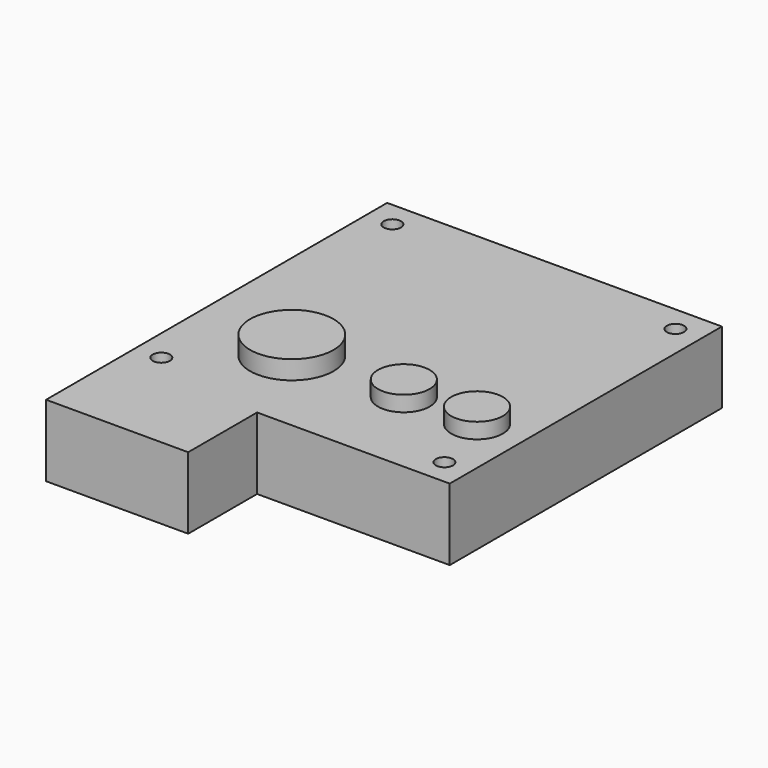
from build123d import *

# Parameters (mm, degrees)
F1_DEPTH = 25
F2_R     = 3
F3_DEPTH = 1000
F4_R     = 14.543021
F5_DEPTH = 6.5
F6_R     = 9
F7_DEPTH = 5.4


with BuildPart() as f1:
    # F0 (on Top) → F1 (new body)
    with BuildSketch(Plane.XY):
        Polygon((16.063117, -18.205635), (16.063117, 100.294365), (-100.53736, 100.294365), (-100.53736, -48.205635), (-51.03736, -48.205635), (-51.03736, -18.205635), align=None)
    extrude(amount=F1_DEPTH)

    # F2 (on face) → F3 (cut)
    with BuildSketch(Plane.XY.offset(25)):
        with Locations((7.063117, 91.294365)):
            Circle(F2_R)
        with Locations((7.063117, -9.286914)):
            Circle(F2_R)
        with Locations((-91.53736, 91.294365)):
            Circle(F2_R)
        with Locations((-91.53736, -9.286914)):
            Circle(F2_R)
    extrude(amount=-F3_DEPTH, mode=Mode.SUBTRACT)

    # F4 (on face) → F5 (join)
    with BuildSketch(Plane.XY.offset(25)):
        with Locations((-64.53736, 13.794365)):
            Circle(F4_R)
    extrude(amount=F5_DEPTH)

    # F6 (on face) → F7 (join)
    with BuildSketch(Plane.XY.offset(25)):
        with Locations((-0.03736, 13.794365)):
            Circle(F6_R)
        with Locations((-25.53736, 13.794365)):
            Circle(F6_R)
    extrude(amount=F7_DEPTH)


solid = f1.part
